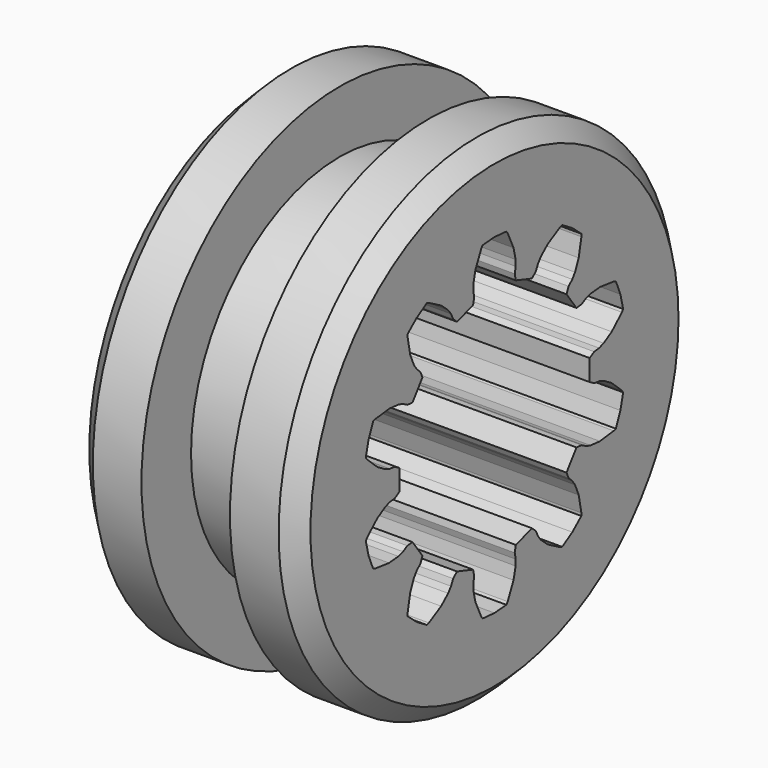
from build123d import *

# Parameters (mm, degrees)
F0_R     = 35.56
F1_DEPTH = 15.875
F2_SIZE  = 2.54
F3_R     = 35.56
F3_R_2   = 26.67
F4_DEPTH = 6.35


with BuildPart() as f1:
    # F0 (on Right) → F1 (new body, symmetric)
    with BuildSketch(Plane.YZ):
        Circle(F0_R)
        Polygon((-22.868566, 4.947201), (-23.091865, 5.26471), (-22.593373, 7.34102), (-21.776228, 9.313816), (-21.408965, 9.439421), (-18.91785, 9.740089), (-17.24005, 9.589805), (-16.418303, 9.336703), (-15.639718, 8.903017), (-14.711918, 8.811145), (-12.92615, 11.269048), (-13.300231, 12.123061), (-13.95326, 12.72952), (-14.44792, 13.432851), (-15.109308, 14.982086), (-15.593147, 17.444193), (-15.587177, 17.832304), (-13.963484, 19.219065), (-12.142814, 20.334787), (-11.771843, 20.220526), (-9.579779, 18.999523), (-8.310763, 17.891761), (-7.794708, 17.203978), (-7.419732, 16.39549), (-6.723118, 15.775821), (-3.833668, 16.714666), (-3.634351, 17.625449), (-3.806203, 18.499936), (-3.792969, 19.359671), (-3.417421, 21.001798), (-2.361702, 23.278071), (-2.128751, 23.58854), (0, 23.756089), (2.128751, 23.58854), (2.361702, 23.278071), (3.417421, 21.001798), (3.792969, 19.359671), (3.806203, 18.499936), (3.634351, 17.625449), (3.833668, 16.714666), (6.723118, 15.775821), (7.419732, 16.39549), (7.794708, 17.203978), (8.310763, 17.891761), (9.579779, 18.999523), (11.771843, 20.220526), (12.142814, 20.334787), (13.963484, 19.219065), (15.587177, 17.832304), (15.593147, 17.444193), (15.109308, 14.982086), (14.44792, 13.432851), (13.95326, 12.72952), (13.300231, 12.123061), (12.92615, 11.269048), (14.711918, 8.811145), (15.639718, 8.903017), (16.418303, 9.336703), (17.24005, 9.589805), (18.91785, 9.740089), (21.408965, 9.439421), (21.776228, 9.313816), (22.593373, 7.34102), (23.091865, 5.26471), (22.868566, 4.947201), (21.029934, 3.239747), (19.584239, 2.375136), (18.770651, 2.096884), (17.885865, 1.990085), (17.081258, 1.519058), (17.081258, -1.519058), (17.885865, -1.990085), (18.770651, -2.096884), (19.584239, -2.375136), (21.029934, -3.239747), (22.868566, -4.947201), (23.091865, -5.26471), (22.593373, -7.34102), (21.776228, -9.313816), (21.408965, -9.439421), (18.91785, -9.740089), (17.24005, -9.589805), (16.418303, -9.336703), (15.639718, -8.903017), (14.711918, -8.811145), (12.92615, -11.269048), (13.300231, -12.123061), (13.95326, -12.72952), (14.44792, -13.432851), (15.109308, -14.982086), (15.593147, -17.444193), (15.587177, -17.832304), (13.963484, -19.219065), (12.142814, -20.334787), (11.771843, -20.220526), (9.579779, -18.999523), (8.310763, -17.891761), (7.794708, -17.203978), (7.419732, -16.39549), (6.723118, -15.775821), (3.833668, -16.714666), (3.634351, -17.625449), (3.806203, -18.499936), (3.792969, -19.359671), (3.417421, -21.001798), (2.361702, -23.278071), (2.128751, -23.58854), (0, -23.756089), (-2.128751, -23.58854), (-2.361702, -23.278071), (-3.417421, -21.001798), (-3.792969, -19.359671), (-3.806203, -18.499936), (-3.634351, -17.625449), (-3.833668, -16.714666), (-6.723118, -15.775821), (-7.419732, -16.39549), (-7.794708, -17.203978), (-8.310763, -17.891761), (-9.579779, -18.999523), (-11.771843, -20.220526), (-12.142814, -20.334787), (-13.963484, -19.219065), (-15.587177, -17.832304), (-15.593147, -17.444193), (-15.109308, -14.982086), (-14.44792, -13.432851), (-13.95326, -12.72952), (-13.300231, -12.123061), (-12.92615, -11.269048), (-14.711918, -8.811145), (-15.639718, -8.903017), (-16.418303, -9.336703), (-17.24005, -9.589805), (-18.91785, -9.740089), (-21.408965, -9.439421), (-21.776228, -9.313816), (-22.593373, -7.34102), (-23.091865, -5.26471), (-22.868566, -4.947201), (-21.029934, -3.239747), (-19.584239, -2.375136), (-18.770651, -2.096884), (-17.885865, -1.990085), (-17.081258, -1.519058), (-17.081258, 1.519058), (-17.885865, 1.990085), (-18.770651, 2.096884), (-19.584239, 2.375136), (-21.029934, 3.239747), align=None, mode=Mode.SUBTRACT)
    extrude(amount=F1_DEPTH, both=True)

    # F2
    f2_edges = [f1.edges().sort_by_distance(p)[0] for p in [
        (15.875, -35.56, 0),
        (-15.875, -35.56, 0),
    ]]
    chamfer(f2_edges, length=F2_SIZE)

    # F3 (on Right) → F4 (cut, symmetric)
    with BuildSketch(Plane.YZ):
        Circle(F3_R)
        Circle(F3_R_2, mode=Mode.SUBTRACT)
    extrude(amount=F4_DEPTH, both=True, mode=Mode.SUBTRACT)


solid = f1.part
